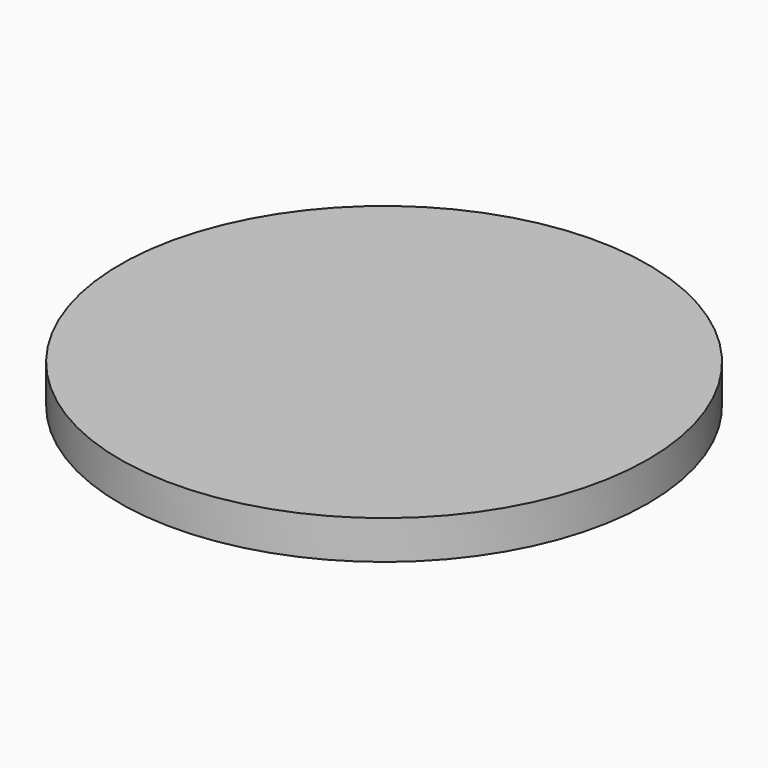
from build123d import *

# Parameters (mm, degrees)
F0_R     = 20.5
F0_R_2   = 20
F1_DEPTH = 2
F2_START = 2
F2_DEPTH = 1


with BuildPart() as f1:
    # F0 (on Top) → F1 (new body)
    with BuildSketch(Plane.XY):
        Circle(F0_R)
        Circle(F0_R_2, mode=Mode.SUBTRACT)
    extrude(amount=F1_DEPTH)

    # F0 (on Top) → F2 (join)
    with BuildSketch(Plane.XY.offset(F2_START)):
        Circle(F0_R)
        Circle(F0_R_2, mode=Mode.SUBTRACT)
        Circle(F0_R_2)
    extrude(amount=F2_DEPTH)


solid = f1.part
